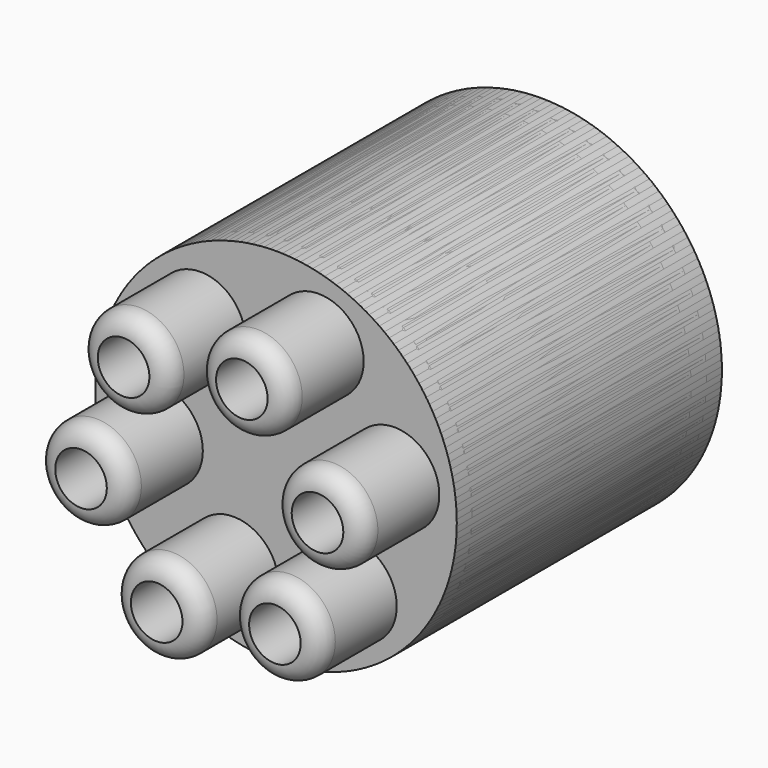
from build123d import *

# Parameters (mm, degrees)
F0_R      = 47.0631039924
F1_DEPTH  = 86.2860679626
F2_R      = 11.7195015642
F3_DEPTH  = 25
F4_COUNT  = 6
F5_R      = 10
F6_R      = 5
F6_2_R    = 5
F6_3_R    = 5
F6_4_R    = 5
F6_5_R    = 5
F6_6_R    = 5
F3_FACE_R = 6.7195015642
F4_FACE_R = 6.7195015642
F7_DEPTH  = 111.2870679626


with BuildPart() as f1:
    # F0 (on Front) → F1 (new body)
    with BuildSketch(Plane.XZ):
        with Locations((-20.425144583, -35.0812450051)):
            Circle(F0_R)
    extrude(amount=F1_DEPTH)

    # F2 (on face) → F3 (join)
    with BuildSketch(Plane.XZ.offset(86.2860679626)):
        with Locations((-51.2145608664, -40.0542542338)):
            Circle(F2_R)
    extrude(amount=F3_DEPTH)


with BuildPart() as f4_1:
    # F4: instance of F1
    add(f1.part.rotate(Axis((-20.425144583, 0, -35.0812450051), (0, 1, 0)), 1 * 360 / F4_COUNT))

    # F6#3
    f6_3_edges = [f4_1.edges().sort_by_distance(p)[0] for p in [
        (-45.986356, -111.286068, -0.753947),
    ]]
    fillet(f6_3_edges, radius=F6_3_R)


with BuildPart() as f4_2:
    # F4: instance of F1
    add(f1.part.rotate(Axis((-20.425144583, 0, -35.0812450051), (0, 1, 0)), 2 * 360 / F4_COUNT))

    # F6#4
    f6_4_edges = [f4_2.edges().sort_by_distance(p)[0] for p in [
        (-3.477438, -111.286068, 4.219062),
    ]]
    fillet(f6_4_edges, radius=F6_4_R)


with BuildPart() as f4_3:
    # F4: instance of F1
    add(f1.part.rotate(Axis((-20.425144583, 0, -35.0812450051), (0, 1, 0)), 3 * 360 / F4_COUNT))

    # F6#2
    f6_2_edges = [f4_3.edges().sort_by_distance(p)[0] for p in [
        (22.083773, -111.286068, -30.108236),
    ]]
    fillet(f6_2_edges, radius=F6_2_R)


with BuildPart() as f4_4:
    # F4: instance of F1
    add(f1.part.rotate(Axis((-20.425144583, 0, -35.0812450051), (0, 1, 0)), 4 * 360 / F4_COUNT))

    # F5
    f5_edges = [f4_4.edges().sort_by_distance(p)[0] for p in [
        (3.106407, 0, -75.839089),
    ]]
    fillet(f5_edges, radius=F5_R)

    # F6
    f6_edges = [f4_4.edges().sort_by_distance(p)[0] for p in [
        (5.136067, -111.286068, -69.408543),
        (3.106407, -86.286068, -75.839089),
        (-1.893593, 0, -67.178835),
    ]]
    fillet(f6_edges, radius=F6_R)


with BuildPart() as f4_5:
    # F4: instance of F1
    add(f1.part.rotate(Axis((-20.425144583, 0, -35.0812450051), (0, 1, 0)), 5 * 360 / F4_COUNT))

    # F6#6
    f6_6_edges = [f4_5.edges().sort_by_distance(p)[0] for p in [
        (-37.372851, -111.286068, -74.381552),
    ]]
    fillet(f6_6_edges, radius=F6_6_R)


with BuildPart() as f1_1:
    add(f1.part)

    # F6#5
    f6_5_edges = [f1_1.edges().sort_by_distance(p)[0] for p in [
        (-62.934062, -111.286068, -40.054254),
        (26.637959, -43.143034, -35.081245),
        (-67.488249, 0, -35.081245),
        (-67.488249, -86.286068, -35.081245),
    ]]
    fillet(f6_5_edges, radius=F6_5_R)


with BuildPart() as f7_tool:
    # F3_face (on face) + F4_face (on face) → F7 (new body, through all)
    with BuildSketch(Plane(origin=(-51.2145608664, -111.2860679626, -40.0542542338), x_dir=(1, 0, 0), z_dir=(0, -1, 0))):
        Circle(F3_FACE_R)
    with BuildSketch(Plane(origin=(-31.5131003994, -111.2860679626, -64.2321662886), x_dir=(1, 0, 0), z_dir=(0, -1, 0))):
        Circle(F4_FACE_R)
        with Locations((30.7894162834, 4.9730092287)):
            Circle(F4_FACE_R)
        with Locations((41.8773720997, 34.1239305122)):
            Circle(F4_FACE_R)
        with Locations((22.1759116327, 58.3018425669)):
            Circle(F4_FACE_R)
        with Locations((-8.6135046506, 53.3288333382)):
            Circle(F4_FACE_R)
    extrude(amount=-F7_DEPTH)


with BuildPart() as f1_2:
    add(f1_1.part)

    # F7: cut by f7_tool
    add(f7_tool.part, mode=Mode.SUBTRACT)


with BuildPart() as f4_1_1:
    add(f4_1.part)

    # F7: cut by f7_tool
    add(f7_tool.part, mode=Mode.SUBTRACT)


with BuildPart() as f4_2_1:
    add(f4_2.part)

    # F7: cut by f7_tool
    add(f7_tool.part, mode=Mode.SUBTRACT)


with BuildPart() as f4_3_1:
    add(f4_3.part)

    # F7: cut by f7_tool
    add(f7_tool.part, mode=Mode.SUBTRACT)


with BuildPart() as f4_4_1:
    add(f4_4.part)

    # F7: cut by f7_tool
    add(f7_tool.part, mode=Mode.SUBTRACT)


with BuildPart() as f4_5_1:
    add(f4_5.part)

    # F7: cut by f7_tool
    add(f7_tool.part, mode=Mode.SUBTRACT)


solid = Compound([f1_2.part, f4_1_1.part, f4_2_1.part, f4_3_1.part, f4_4_1.part, f4_5_1.part])
